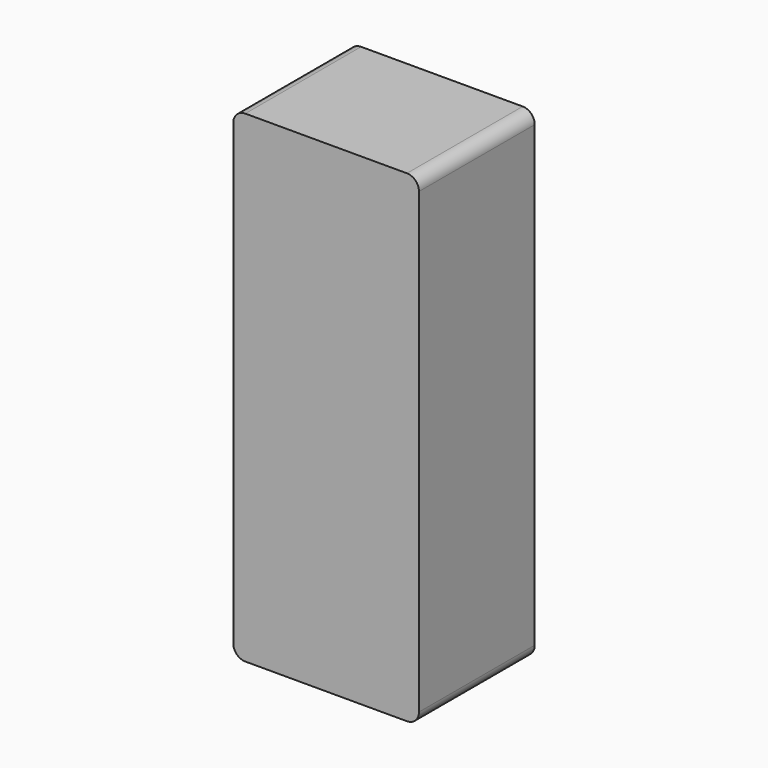
from build123d import *

# Parameters (mm, degrees)
F1_DEPTH = 30


with BuildPart() as f1:
    # F0 (on Front) → F1 (new body, symmetric)
    with BuildSketch(Plane.XZ):
        with BuildLine():
            Line((-33.5, -100), (33.5, -100))
            ThreePointArc((33.5, -100), (37.035534, -98.535534), (38.5, -95))
            Line((38.5, -95), (38.5, 95))
            ThreePointArc((38.5, 95), (37.035534, 98.535534), (33.5, 100))
            Line((33.5, 100), (-33.5, 100))
            ThreePointArc((-33.5, 100), (-37.035534, 98.535534), (-38.5, 95))
            Line((-38.5, 95), (-38.5, -95))
            ThreePointArc((-38.5, -95), (-37.035534, -98.535534), (-33.5, -100))
        make_face()
    extrude(amount=F1_DEPTH, both=True)


solid = f1.part
